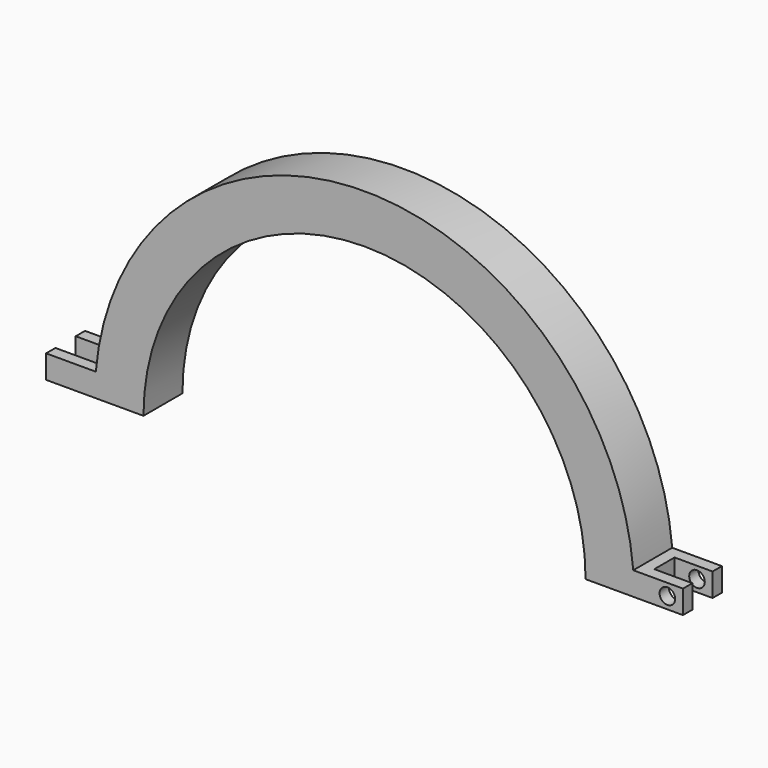
from build123d import *

# Parameters (mm, degrees)
F1_DEPTH = 12.5
F2_W     = 19.5208349061
F2_H     = 13
F3_DEPTH = 12.001
F4_W     = 21.5208349061
F4_H     = 13
F5_DEPTH = 12.001
F6_R     = 4
F7_DEPTH = 25.001


with BuildPart() as f1:
    # F0 (on Front) → F1 (new body, symmetric)
    with BuildSketch(Plane.XZ):
        with BuildLine():
            ThreePointArc((137.9791650939, 12), (138.369730009, 6.0056487784), (138.5, 0))
            Line((138.5, 0), (163.5, 0))
            Line((163.5, 0), (163.5, 12))
            Line((163.5, 12), (137.9791650939, 12))
        make_face()
        with BuildLine():
            Line((-163.5, 0), (-138.5, 0))
            ThreePointArc((-138.5, 0), (-138.369730009, 6.0056487784), (-137.9791650939, 12))
            Line((-137.9791650939, 12), (-163.5, 12))
            Line((-163.5, 12), (-163.5, 0))
        make_face()
        with BuildLine():
            ThreePointArc((-113.5, 0), (0, 113.5), (113.5, 0))
            Line((113.5, 0), (138.5, 0))
            ThreePointArc((138.5, 0), (138.369730009, 6.0056487784), (137.9791650939, 12))
            ThreePointArc((137.9791650939, 12), (0, 138.5), (-137.9791650939, 12))
            ThreePointArc((-137.9791650939, 12), (-138.369730009, 6.0056487784), (-138.5, 0))
            Line((-138.5, 0), (-113.5, 0))
        make_face()
    extrude(amount=F1_DEPTH, both=True)

    # F2 (on face) → F3 (cut, through all)
    with BuildSketch(Plane.XY.offset(12)):
        with Locations((153.7395825469, 0)):
            Rectangle(F2_W, F2_H)
    extrude(amount=-F3_DEPTH, mode=Mode.SUBTRACT)

    # F4 (on face) → F5 (cut, through all)
    with BuildSketch(Plane.XY.offset(12)):
        with Locations((-152.7395825469, 0)):
            Rectangle(F4_W, F4_H)
    extrude(amount=-F5_DEPTH, mode=Mode.SUBTRACT)

    # F6 (on face) → F7 (cut, through all)
    with BuildSketch(Plane.XZ.offset(12.5)):
        with Locations((155.5, 6)):
            Circle(F6_R)
    extrude(amount=-F7_DEPTH, mode=Mode.SUBTRACT)


solid = f1.part
